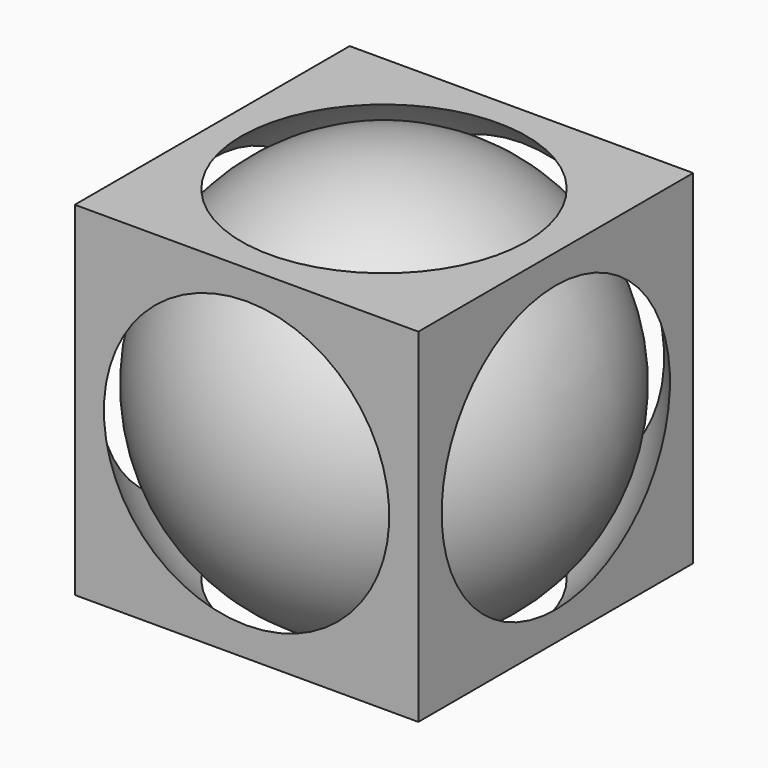
from build123d import *

# Parameters (mm, degrees)
CYLINDER002_R     = 4
CYLINDER002_DEPTH = 12
CYLINDER001_R     = 4
CYLINDER001_DEPTH = 12
CYLINDER_R        = 4
CYLINDER_DEPTH    = 12
BOX_W             = 10
BOX_H             = 10
BOX_DEPTH         = 10


with BuildPart() as sphere001:
    # Sphere001 → Sphere001 (revolve)
    with BuildSketch(Plane(origin=(5, 5, 5), x_dir=(1, 0, 0), z_dir=(0, -1, 0))):
        with BuildLine():
            ThreePointArc((0, -6), (6, 0), (0, 6))
            Line((0, 6), (0, -6))
        make_face()
    revolve(axis=Axis((5, 5, 5), (0, 0, 1)))


with BuildPart() as sphere:
    # Sphere → Sphere (revolve)
    with BuildSketch(Plane(origin=(5, 5, 5), x_dir=(1, 0, 0), z_dir=(0, -1, 0))):
        with BuildLine():
            ThreePointArc((0, -6.5), (6.5, 0), (0, 6.5))
            Line((0, 6.5), (0, -6.5))
        make_face()
    revolve(axis=Axis((5, 5, 5), (0, 0, 1)))


with BuildPart() as cylinder002:
    # Cylinder002 → Cylinder002 (new body)
    with BuildSketch(Plane(origin=(5, 11, 5), x_dir=(1, 0, 0), z_dir=(0, -1, 0))):
        Circle(CYLINDER002_R)
    extrude(amount=CYLINDER002_DEPTH)


with BuildPart() as cylinder001:
    # Cylinder001 → Cylinder001 (new body)
    with BuildSketch(Plane(origin=(-1, 5, 5), x_dir=(0, 0, -1), z_dir=(1, 0, 0))):
        Circle(CYLINDER001_R)
    extrude(amount=CYLINDER001_DEPTH)


with BuildPart() as cylinder:
    # Cylinder → Cylinder (new body)
    with BuildSketch(Plane(origin=(5, 5, -1), x_dir=(1, 0, 0), z_dir=(0, 0, 1))):
        Circle(CYLINDER_R)
    extrude(amount=CYLINDER_DEPTH)


with BuildPart() as fusion001:
    # Fusion base: copy of Cylinder001
    add(cylinder001.part)

    # Fusion: union Cylinder
    add(cylinder.part)

    # Fusion001: union Cylinder002, Cylinder001, Cylinder
    add(cylinder002.part)
    add(cylinder001.part)
    add(cylinder.part)


with BuildPart() as cut001:
    # Box → Box (new body)
    with BuildSketch(Plane.XY):
        with Locations((5, 5)):
            Rectangle(BOX_W, BOX_H)
    extrude(amount=BOX_DEPTH)

    # Cut: cut Fusion001
    add(fusion001.part, mode=Mode.SUBTRACT)

    # Cut001: cut Sphere
    add(sphere.part, mode=Mode.SUBTRACT)


solid = Compound([sphere001.part, cut001.part])
